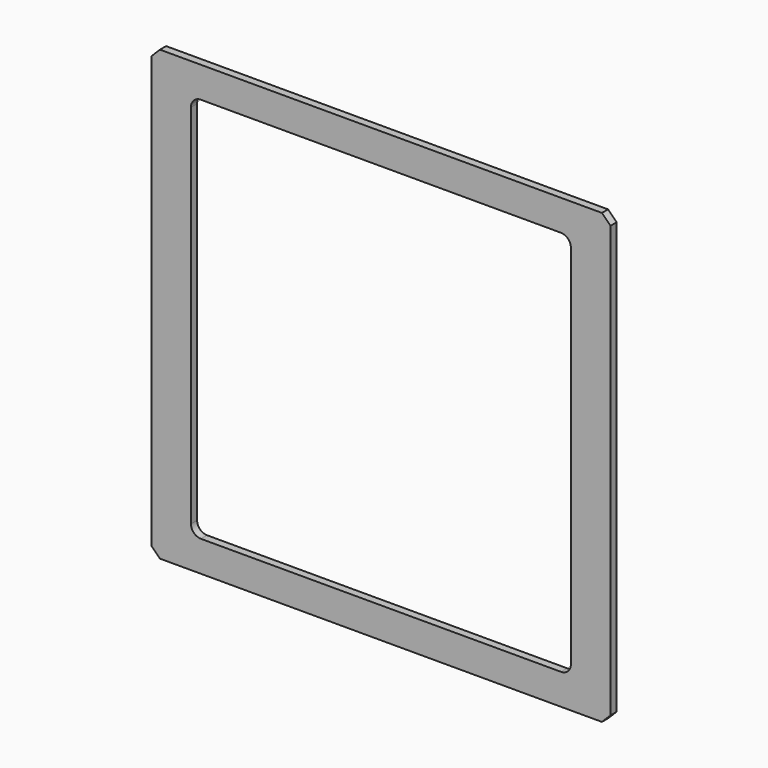
from build123d import *

# Parameters (mm, degrees)
F1_DEPTH = 3.556


with BuildPart() as f1:
    # F0 (on Front) → F1 (new body)
    with BuildSketch(Plane.XZ):
        Polygon((-106.045, -99.553687), (-102.093687, -103.505), (102.093687, -103.505), (106.045, -99.553687), (106.045, 99.553687), (102.093687, 103.505), (-102.093687, 103.505), (-106.045, 99.553687), align=None)
        with BuildLine():
            Line((83.185, -89.281), (-83.185, -89.281))
            ThreePointArc((-83.185, -89.281), (-86.417892, -87.941892), (-87.757, -84.709))
            Line((-87.757, -84.709), (-87.757, 84.709))
            ThreePointArc((-87.757, 84.709), (-86.417892, 87.941892), (-83.185, 89.281))
            Line((-83.185, 89.281), (83.185, 89.281))
            ThreePointArc((83.185, 89.281), (86.417892, 87.941892), (87.757, 84.709))
            Line((87.757, 84.709), (87.757, -84.709))
            ThreePointArc((87.757, -84.709), (86.417892, -87.941892), (83.185, -89.281))
        make_face(mode=Mode.SUBTRACT)
    extrude(amount=F1_DEPTH)


solid = f1.part
